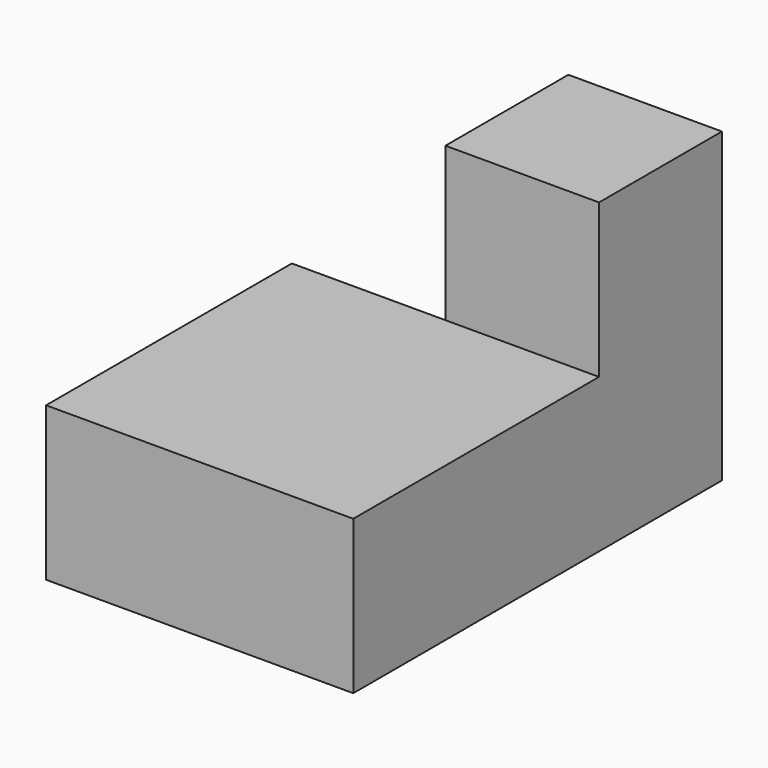
from build123d import *

# Parameters (mm, degrees)
F1_DEPTH = 19.05
F2_W     = 19.05
F2_H     = 19.05
F3_DEPTH = 19.05


with BuildPart() as f1:
    # F0 (on Top) → F1 (new body)
    with BuildSketch(Plane.XY):
        Polygon((19.05, 38.1), (0, 38.1), (0, 0), (38.1, 0), (38.1, 38.1), (38.1, 57.15), (19.05, 57.15), align=None)
    extrude(amount=F1_DEPTH)

    # F2 (on face) → F3 (join)
    with BuildSketch(Plane.XY.offset(19.05)):
        with Locations((28.575, 47.625)):
            Rectangle(F2_W, F2_H)
    extrude(amount=F3_DEPTH)


solid = f1.part
